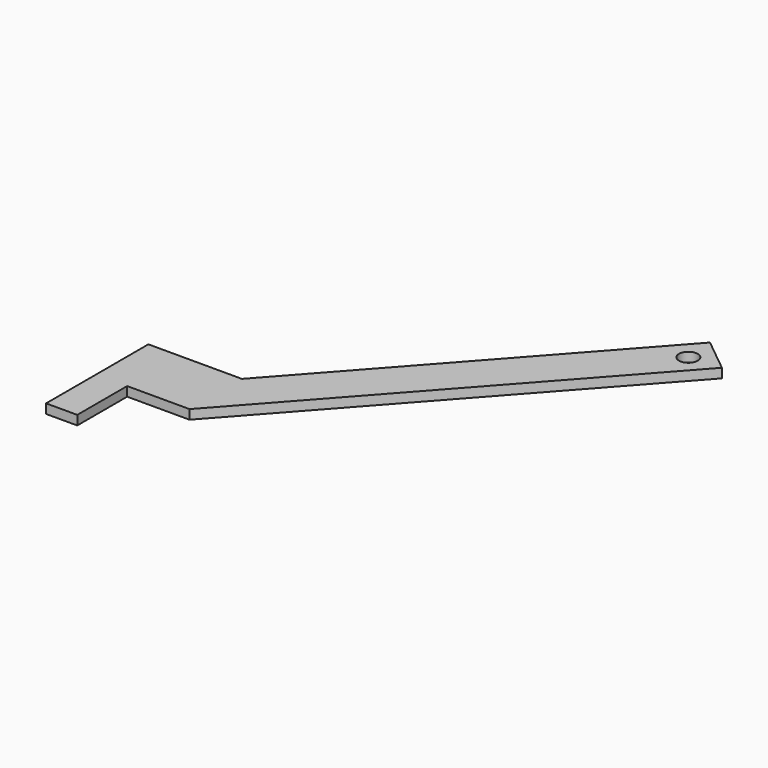
from build123d import *

# Parameters (mm, degrees)
F0_R     = 1.5
F1_DEPTH = 1.5


with BuildPart() as f1:
    # F0 (on Top) → F1 (new body)
    with BuildSketch(Plane.XY):
        Polygon((0, 20.503507), (0, 0), (5, 0), (5, 10), (15, 10), (60.057489, 60.40609), (54.613068, 64.818891), (15, 20.503507), align=None)
        with Locations((55, 60)):
            Circle(F0_R, mode=Mode.SUBTRACT)
    extrude(amount=F1_DEPTH)


solid = f1.part
